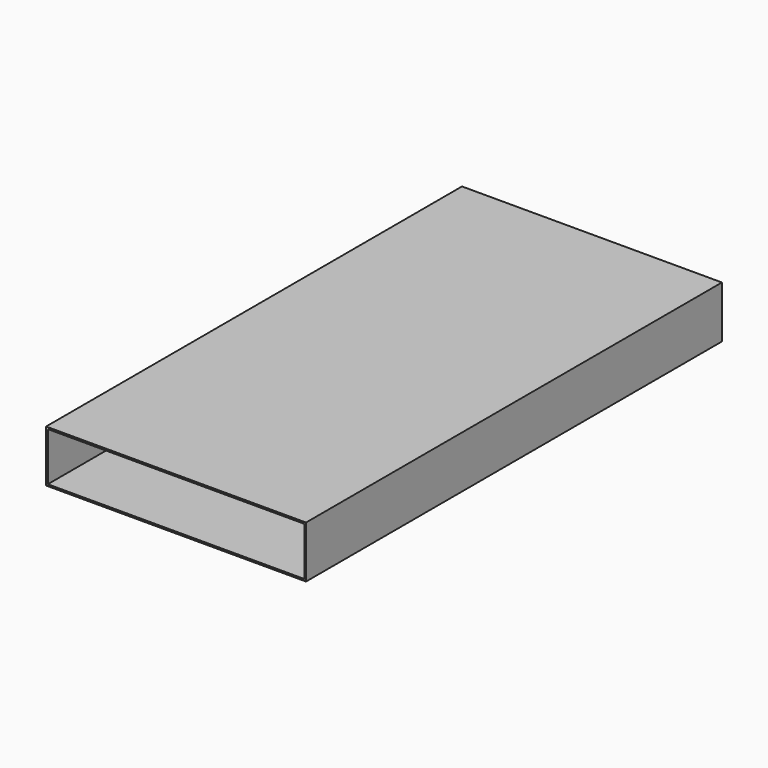
from build123d import *

# Parameters (mm, degrees)
F0_W     = 381
F0_H     = 76.2
F1_DEPTH = 762
F2_T     = -2.54


with BuildPart() as f1:
    # F0 (on Front) → F1 (new body)
    with BuildSketch(Plane.XZ):
        Rectangle(F0_W, F0_H)
    extrude(amount=-F1_DEPTH)

    # F2
    f2_openings = [f1.faces().sort_by_distance(p)[0] for p in [
        (0, 0, 0),
    ]]
    offset(amount=F2_T, openings=f2_openings)


solid = f1.part
